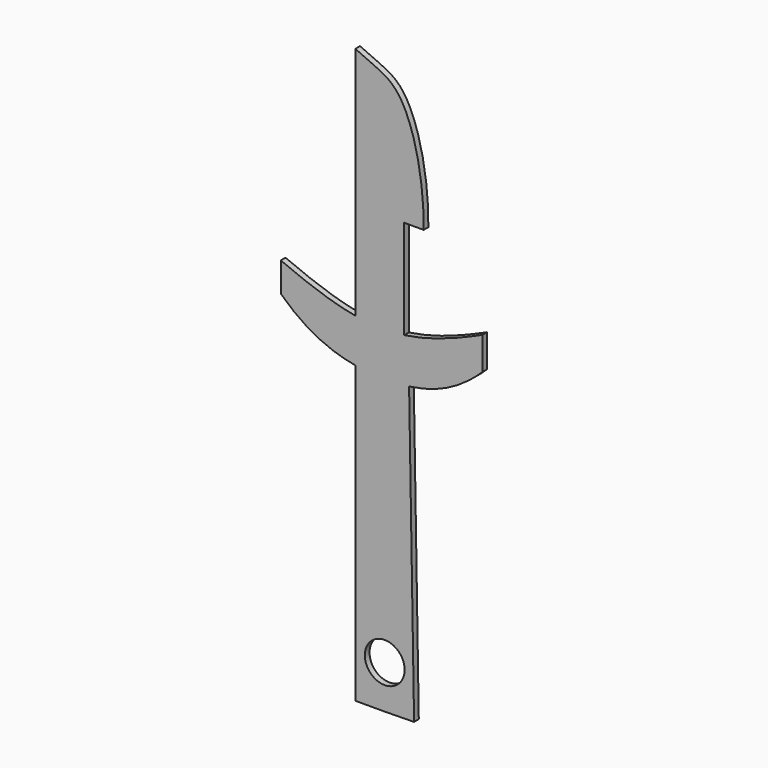
from build123d import *

# Parameters (mm, degrees)
F0_R     = 4.3009235336
F1_DEPTH = 1.27


with BuildPart() as f1:
    # F0 (on Front) → F1 (new body)
    with BuildSketch(Plane.XZ):
        with BuildLine():
            Line((-6.35, 0), (0, 0))
            Line((0, 0), (6.3490810785, 0.1080252686))
            Line((6.3490810785, 0.1080252686), (5.2688283925, 63.5988360536))
            add(Edge.make_bspline(
                [(-6.35, 63.8333058417), (-4.2231685824, 63.4656735081), (-0.3315328284, 63.1981260537), (3.5198606581, 63.3706524244), (5.2688283925, 63.5988360536)],
                knots=[0.3630334453, 0.3630334453, 0.3630334453, 0.3630334453, 0.5079470936, 0.6293569632, 0.6293569632, 0.6293569632, 0.6293569632], degree=3))
            Line((-6.35, 63.8333058417), (-6.35, 0))
        make_face()
        with Locations((0, 9.344831109)):
            Circle(F0_R, mode=Mode.SUBTRACT)
        with BuildLine():
            add(Edge.make_bspline(
                [(-22.4678642667, 72.2196217231), (-17.064453701, 67.0688457999), (-11.678076037, 64.7542876416), (-6.35, 63.8333058417)],
                knots=[0, 0, 0, 0, 0.3630334453, 0.3630334453, 0.3630334453, 0.3630334453], degree=3))
            add(Edge.make_bspline(
                [(-6.35, 63.8333058417), (-4.2231685824, 63.4656735081), (-0.3315328284, 63.1981260537), (3.5198606581, 63.3706524244), (5.2688283925, 63.5988360536)],
                knots=[0.3630334453, 0.3630334453, 0.3630334453, 0.3630334453, 0.5079470936, 0.6293569632, 0.6293569632, 0.6293569632, 0.6293569632], degree=3))
            add(Edge.make_bspline(
                [(5.2688283925, 63.5988360536), (10.6081201213, 64.2954406507), (15.8842146578, 66.3856574203), (21.14212726, 71.5218634843)],
                knots=[0.6293569632, 0.6293569632, 0.6293569632, 0.6293569632, 1, 1, 1, 1], degree=3))
            Line((21.14212726, 71.5218634843), (21.14212726, 78.5696217231))
            add(Edge.make_bspline(
                [(4.2082792031, 73.009523998), (9.9127795787, 73.8128150252), (15.5285993496, 76.0346187914), (21.14212726, 78.5696217231)],
                knots=[0.604052538, 0.604052538, 0.604052538, 0.604052538, 1, 1, 1, 1], degree=3))
            add(Edge.make_bspline(
                [(-6.35, 73.2690403028), (-4.2213889104, 72.8857278835), (-0.6845952553, 72.5344725832), (2.8112610215, 72.8127999913), (4.2082792031, 73.009523998)],
                knots=[0.3623266011, 0.3623266011, 0.3623266011, 0.3623266011, 0.5070859735, 0.604052538, 0.604052538, 0.604052538, 0.604052538], degree=3))
            add(Edge.make_bspline(
                [(-22.4678642667, 78.5696217231), (-17.071903631, 76.2714329461), (-11.6778237405, 74.2284551144), (-6.35, 73.2690403028)],
                knots=[0, 0, 0, 0, 0.3623266011, 0.3623266011, 0.3623266011, 0.3623266011], degree=3))
            Line((-22.4678642667, 78.5696217231), (-22.4678642667, 72.2196217231))
        make_face()
        with BuildLine():
            Line((-6.35, 124.0690403028), (-6.35, 73.2690403028))
            add(Edge.make_bspline(
                [(-6.35, 73.2690403028), (-4.2213889104, 72.8857278835), (-0.6845952553, 72.5344725832), (2.8112610215, 72.8127999913), (4.2082792031, 73.009523998)],
                knots=[0.3623266011, 0.3623266011, 0.3623266011, 0.3623266011, 0.5070859735, 0.604052538, 0.604052538, 0.604052538, 0.604052538], degree=3))
            Line((4.2082792031, 73.009523998), (4.2082792031, 94.4060406129))
            Line((4.2082792031, 94.4060406129), (8.4165584062, 94.4060406129))
            add(Edge.make_bspline(
                [(-6.35, 124.0690403028), (-2.1679936617, 121.9989947069), (4.7642410929, 120.8009290959), (8.5400210241, 104.1075805814), (8.4165584062, 94.4060406129)],
                knots=[0, 0, 0, 0, 0.3958593913, 1, 1, 1, 1], degree=3))
        make_face()
    extrude(amount=F1_DEPTH)


solid = f1.part
